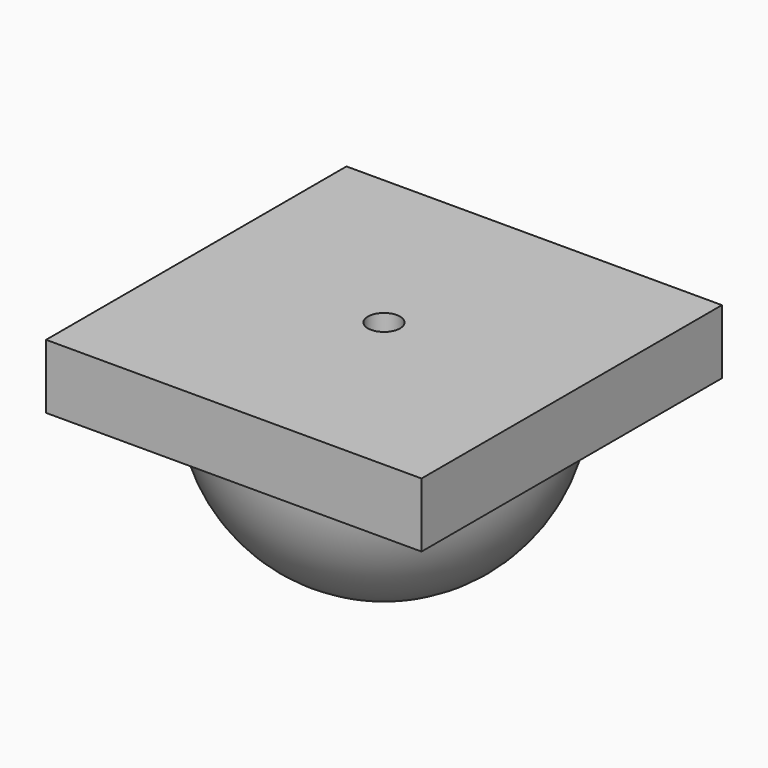
from build123d import *

# Parameters (mm, degrees)
F0_W     = 35
F0_H     = 35
F1_DEPTH = 6
F4_D     = 3
F4_DEPTH = 10
F4_TIP   = 0.9012909285


with BuildPart() as f1:
    # F0 (on Top) → F1 (new body)
    with BuildSketch(Plane.XY):
        Rectangle(F0_W, F0_H)
    extrude(amount=-F1_DEPTH)

    # F2 (on Front) → F3 (revolve)
    with BuildSketch(Plane.XZ):
        with BuildLine():
            Line((0, -6), (0, -21))
            ThreePointArc((0, -21), (10.6066017178, -16.6066017178), (15, -6))
            Line((15, -6), (0, -6))
        make_face()
    revolve(axis=Axis((0, 0, -13.5), (0, 0, -1)))

    # F4
    with Locations(Plane.XY):
        with Locations((0, 0)):
            Hole(F4_D / 2, depth=F4_DEPTH)
            with Locations((0, 0, -(F4_DEPTH + F4_TIP / 2))):  # 118° drill point
                Cone(0, F4_D / 2, F4_TIP, mode=Mode.SUBTRACT)


solid = f1.part
